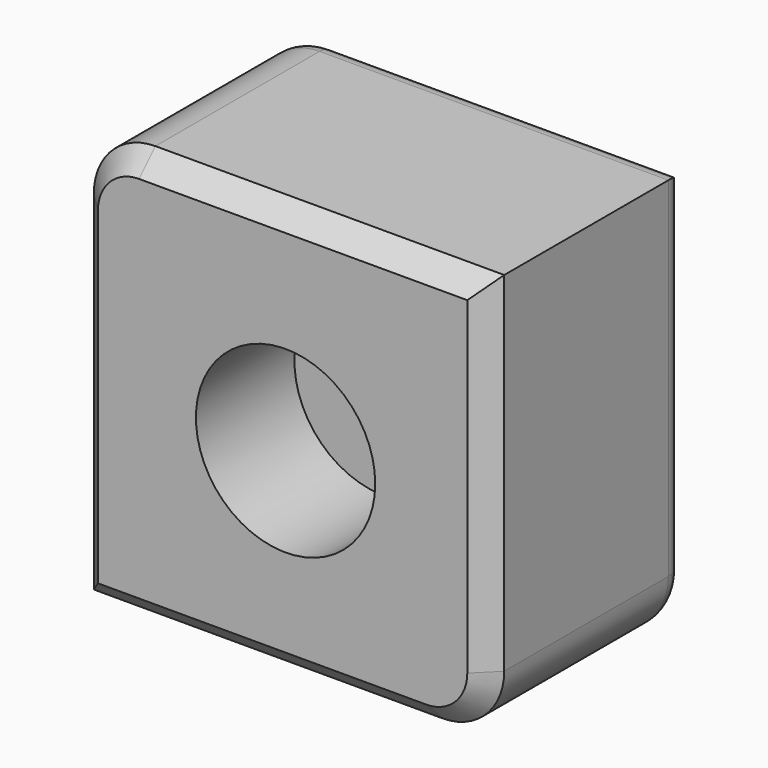
from build123d import *

# Parameters (mm, degrees)
F1_DEPTH = 60
F2_R     = 5
F3_SIZE  = 5
F5_R     = 21.846127
F6_DEPTH = 30


with BuildPart() as f1:
    # F0 (on Front) → F1 (new body)
    with BuildSketch(Plane.XZ):
        with BuildLine():
            Line((49.28327, 51.693205), (-35.71673, 51.693205))
            ThreePointArc((-35.71673, 51.693205), (-46.323332, 47.299807), (-50.71673, 36.693205))
            Line((-50.71673, 36.693205), (-50.71673, -48.306795))
            Line((-50.71673, -48.306795), (34.28327, -48.306795))
            ThreePointArc((34.28327, -48.306795), (44.889872, -43.913397), (49.28327, -33.306795))
            Line((49.28327, -33.306795), (49.28327, 51.693205))
        make_face()
    extrude(amount=F1_DEPTH)

    # F2
    f2_edges = [f1.edges().sort_by_distance(p)[0] for p in [
        (49.28327, 0, 9.193205),
        (6.78327, 0, 51.693205),
        (-46.323332, 0, 47.299807),
        (-50.71673, 0, -5.806795),
        (-8.21673, 0, -48.306795),
        (44.889872, 0, -43.913397),
    ]]
    fillet(f2_edges, radius=F2_R)

    # F3
    f3_edges = [f1.edges().sort_by_distance(p)[0] for p in [
        (49.28327, -60, 9.193205),
        (6.78327, -60, 51.693205),
        (-46.323332, -60, 47.299807),
        (-50.71673, -60, -5.806795),
        (-8.21673, -60, -48.306795),
        (44.889872, -60, -43.913397),
    ]]
    chamfer(f3_edges, length=F3_SIZE)

    # F5 (on face) → F6 (cut)
    with BuildSketch(Plane.XZ.offset(60)):
        Circle(F5_R)
    extrude(amount=-F6_DEPTH, mode=Mode.SUBTRACT)


solid = f1.part
